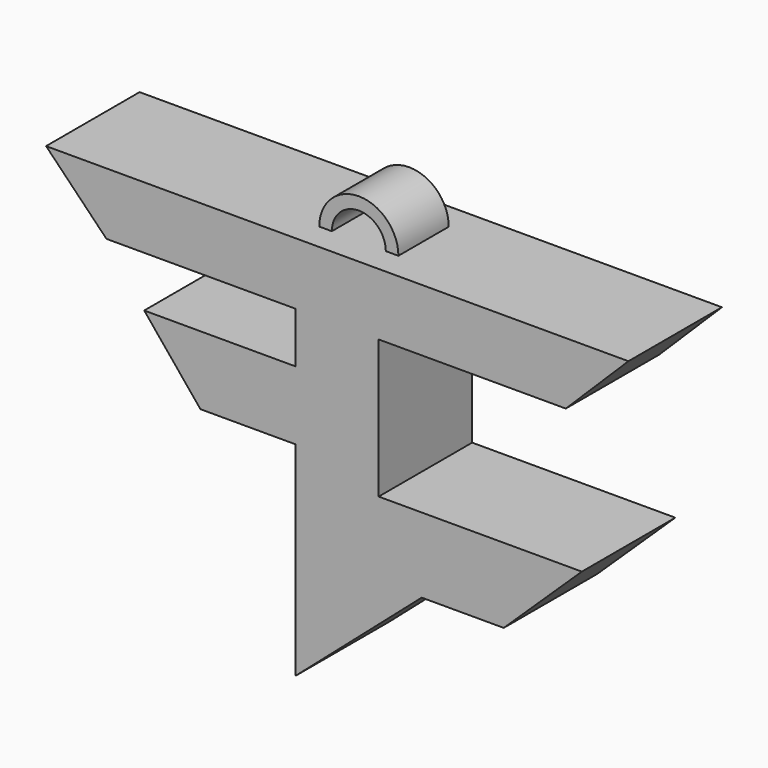
from build123d import *

# Parameters (mm, degrees)
F1_DEPTH = 16.51
F3_DEPTH = 12.7
F5_DEPTH = 3.81


with BuildPart() as f1:
    # F0 (on Front) → F1 (new body)
    with BuildSketch(Plane.XZ):
        Polygon((-49.108937, 102.7169), (-131.373763, 102.7169), (-122.843154, 93.950309), (-96.143551, 93.950309), (-96.143551, 86.778201), (-117.512472, 86.778201), (-109.566309, 77.086523), (-96.143551, 77.086523), (-96.143551, 48.287213), (-78.310058, 63.821733), (-66.723436, 63.821733), (-55.69331, 74.407369), (-84.38962, 74.407369), (-84.38962, 93.950309), (-57.955489, 93.950309), align=None)
    extrude(amount=F1_DEPTH)

    # F2 (on face) → F3 (join)
    with BuildSketch(Plane.XZ.offset(16.51)):
        with BuildLine():
            ThreePointArc((-94.05135, 102.7169), (-90.24135, 106.5269), (-86.43135, 102.7169))
            Line((-86.43135, 102.7169), (-84.65335, 102.7169))
            ThreePointArc((-84.65335, 102.7169), (-90.24135, 108.3049), (-95.82935, 102.7169))
            Line((-95.82935, 102.7169), (-94.05135, 102.7169))
        make_face()
    extrude(amount=-F3_DEPTH)

    # F4 (on face) → F5 (cut)
    with BuildSketch(Plane.XZ.offset(16.51)):
        with BuildLine():
            Line((-86.43135, 102.7169), (-84.65335, 102.7169))
            ThreePointArc((-84.65335, 102.7169), (-90.24135, 108.3049), (-95.82935, 102.7169))
            Line((-95.82935, 102.7169), (-94.05135, 102.7169))
            ThreePointArc((-94.05135, 102.7169), (-90.24135, 106.5269), (-86.43135, 102.7169))
        make_face()
    extrude(amount=-F5_DEPTH, mode=Mode.SUBTRACT)


solid = f1.part
